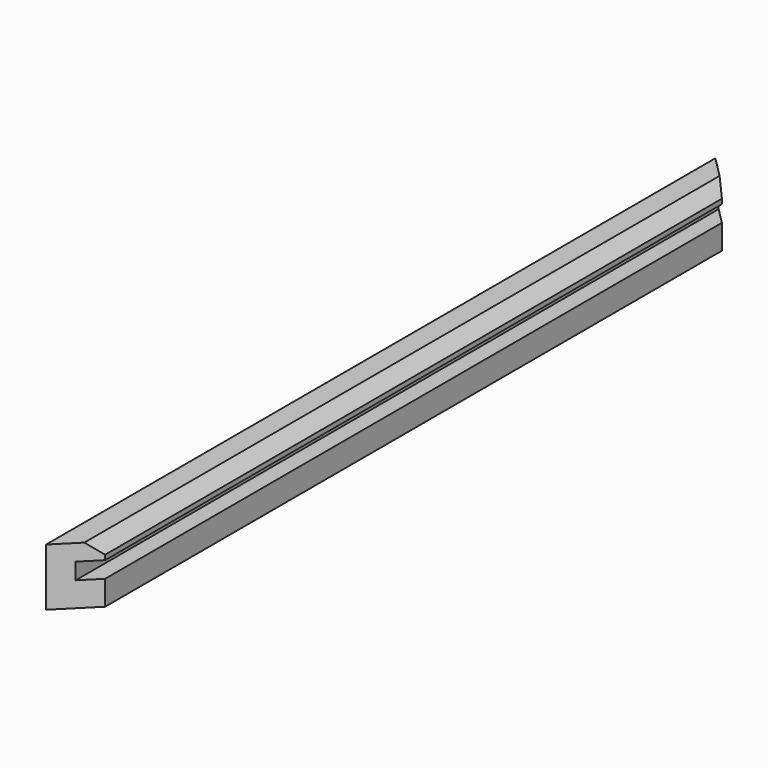
from build123d import *

# Parameters (mm, degrees)
F1_DEPTH = 323.85
F3_DEPTH = 22.226


with BuildPart() as f1:
    # F0 (on Front) → F1 (new body)
    with BuildSketch(Plane.XZ):
        Polygon((0, 22.225), (0, 0), (12.7, 0), (12.7, 9.525), (6.35, 9.525), (6.35, 15.875), (12.7, 15.875), (12.7, 17.734872), (8.209872, 22.225), align=None)
    extrude(amount=F1_DEPTH)

    # F2 (on face) → F3 (cut, through all)
    with BuildSketch(Plane(origin=(0, 0, 0), x_dir=(1, 0, 0), z_dir=(0, 0, -1))):
        Polygon((12.7, 323.85), (0, 323.85), (12.7, 311.15), align=None)
        Polygon((12.7, 12.7), (0, 0), (12.7, 0), align=None)
    extrude(amount=-F3_DEPTH, mode=Mode.SUBTRACT)


solid = f1.part
